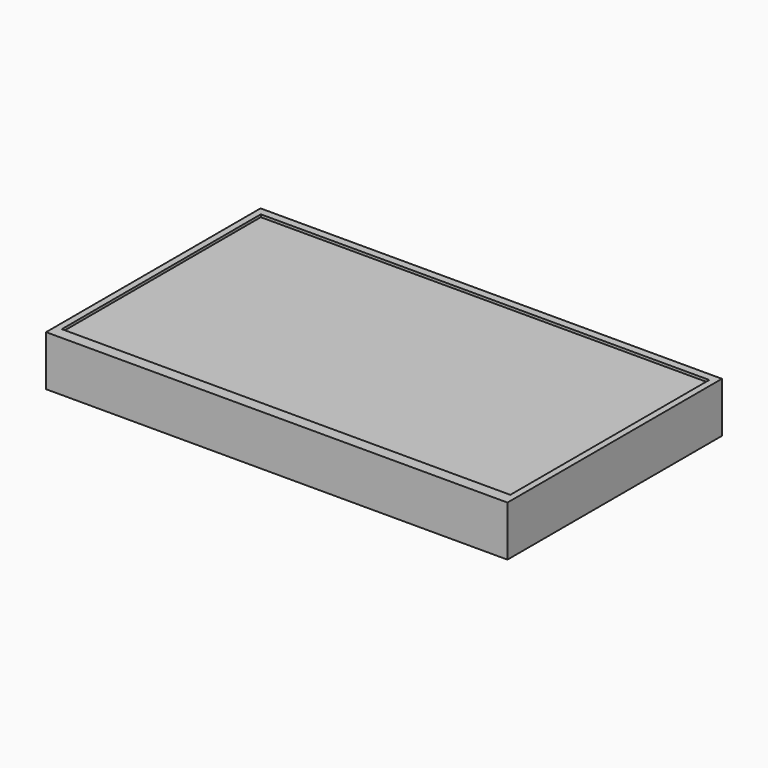
from build123d import *

# Parameters (mm, degrees)
F0_W     = 1136.65
F0_H     = 660.4
F0_W_2   = 1104.9
F0_H_2   = 612.775
F1_DEPTH = 123.825
F2_DEPTH = 6.35


with BuildPart() as f1:
    # F0 (on Top) → F1 (new body)
    with BuildSketch(Plane.XY):
        with Locations((-28.329332, 58.758426)):
            Rectangle(F0_W, F0_H)
        with Locations((-28.329332, 63.520926)):
            Rectangle(F0_W_2, F0_H_2, mode=Mode.SUBTRACT)
        with Locations((-28.329332, 63.520926)):
            Rectangle(F0_W_2, F0_H_2)
    extrude(amount=-F1_DEPTH)

    # F0 (on Top) → F2 (cut)
    with BuildSketch(Plane.XY):
        with Locations((-28.329332, 63.520926)):
            Rectangle(F0_W_2, F0_H_2)
    extrude(amount=-F2_DEPTH, mode=Mode.SUBTRACT)


solid = f1.part
